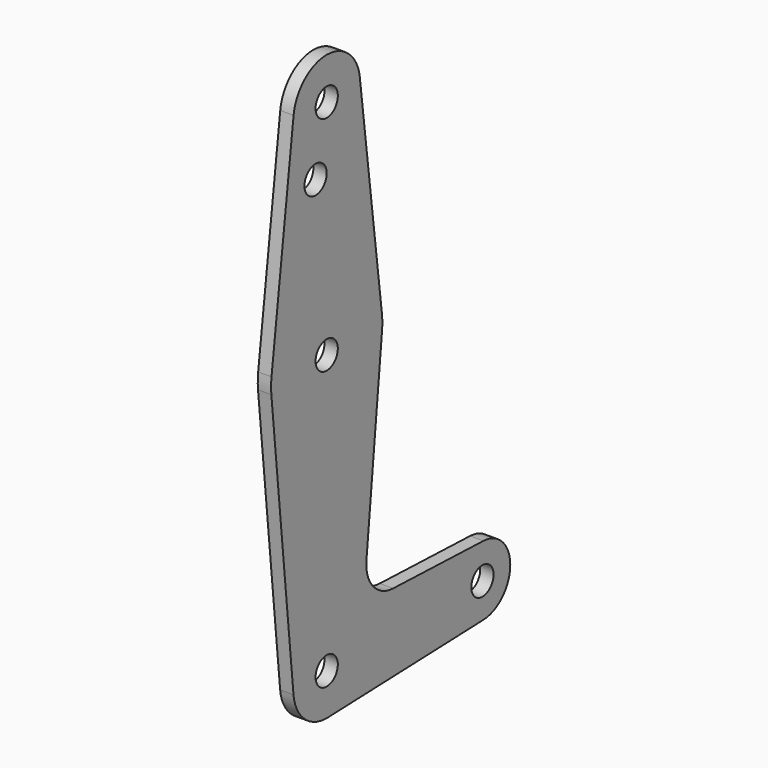
from build123d import *

# Parameters (mm, degrees)
F0_R     = 12.5
F1_DEPTH = 12


with BuildPart() as f1:
    # F0 (on Right) → F1 (new body)
    with BuildSketch(Plane.YZ):
        with BuildLine():
            ThreePointArc((-37.205878, 454.6875), (-2.348359, 412.573603), (37.5, 450))
            ThreePointArc((37.5, 450), (37.426397, 452.348359), (37.205878, 454.6875))
            ThreePointArc((37.205878, 454.6875), (0, 487.5), (-37.205878, 454.6875))
        make_face()
        with Locations((0, 450)):
            Circle(F0_R, mode=Mode.SUBTRACT)
        with BuildLine():
            ThreePointArc((37.205878, 454.6875), (37.426397, 452.348359), (37.5, 450))
            ThreePointArc((37.5, 450), (-2.348359, 412.573603), (-37.205878, 454.6875))
            Line((-37.205878, 454.6875), (-62.009796, 257.8125))
            ThreePointArc((-62.009796, 257.8125), (0, 312.5), (62.009796, 257.8125))
            Line((62.009796, 257.8125), (37.205878, 454.6875))
        make_face()
        with Locations((-12.5, 393.8)):
            Circle(F0_R, mode=Mode.SUBTRACT)
        with BuildLine():
            ThreePointArc((62.5, 250), (62.377329, 253.913932), (62.009796, 257.8125))
            ThreePointArc((62.009796, 257.8125), (0, 312.5), (-62.009796, 257.8125))
            ThreePointArc((-62.009796, 257.8125), (-62.495054, 250.786242), (-62.186715, 243.75))
            ThreePointArc((-62.186715, 243.75), (0, 187.5), (62.186715, 243.75))
            ThreePointArc((62.186715, 243.75), (62.42163, 246.871077), (62.5, 250))
        make_face()
        with Locations((0, 250)):
            Circle(F0_R, mode=Mode.SUBTRACT)
        with BuildLine():
            ThreePointArc((62.186715, 243.75), (0, 187.5), (-62.186715, 243.75))
            Line((-62.186715, 243.75), (-37.312029, -3.75))
            ThreePointArc((-37.312029, -3.75), (-1.877354, 37.452978), (37.5, 0))
            ThreePointArc((37.5, 0), (26.985859, -26.03869), (1.339286, -37.476077))
            Line((1.339286, -37.476077), (176.116071, -31.230064))
            ThreePointArc((176.116071, -31.230064), (143.75, 0), (176.116071, 31.230064))
            Line((176.116071, 31.230064), (74.675591, 34.855251))
            ThreePointArc((74.675591, 34.855251), (52.209448, 45.556532), (44.650341, 69.265283))
            Line((44.650341, 69.265283), (62.186715, 243.75))
        make_face()
        with BuildLine():
            ThreePointArc((37.5, 0), (-1.877354, 37.452978), (-37.312029, -3.75))
            ThreePointArc((-37.312029, -3.75), (-24.655053, -28.25559), (1.339286, -37.476077))
            ThreePointArc((1.339286, -37.476077), (26.985859, -26.03869), (37.5, 0))
        make_face()
        Circle(F0_R, mode=Mode.SUBTRACT)
        with BuildLine():
            ThreePointArc((176.116071, 31.230064), (143.75, 0), (176.116071, -31.230064))
            ThreePointArc((176.116071, -31.230064), (197.488216, -21.698909), (206.25, 0))
            ThreePointArc((206.25, 0), (197.488216, 21.698909), (176.116071, 31.230064))
        make_face()
        with Locations((175, 0)):
            Circle(F0_R, mode=Mode.SUBTRACT)
    extrude(amount=F1_DEPTH)


solid = f1.part
